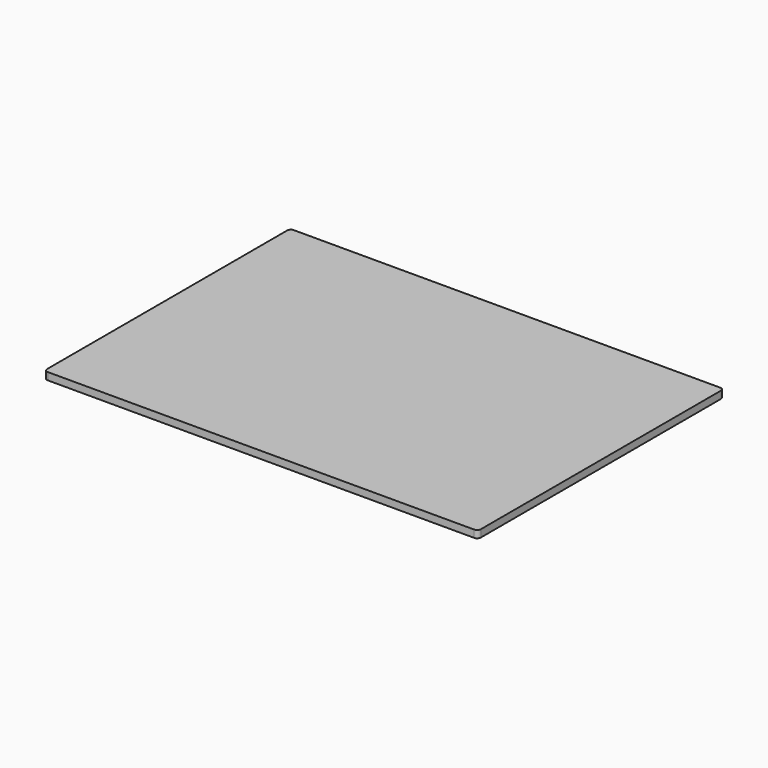
from build123d import *

# Parameters (mm, degrees)
F0_W     = 237
F0_H     = 168
F1_DEPTH = 4
F2_R     = 2


with BuildPart() as f1:
    # F0 (on Top) → F1 (new body)
    with BuildSketch(Plane.XY):
        Rectangle(F0_W, F0_H)
        Rectangle(F0_W, F0_H)
    extrude(amount=F1_DEPTH)

    # F2
    f2_edges = [f1.edges().sort_by_distance(p)[0] for p in [
        (-118.5, -84, 2),
        (118.5, -84, 2),
        (118.5, 84, 2),
        (-118.5, 84, 2),
    ]]
    fillet(f2_edges, radius=F2_R)


solid = f1.part
